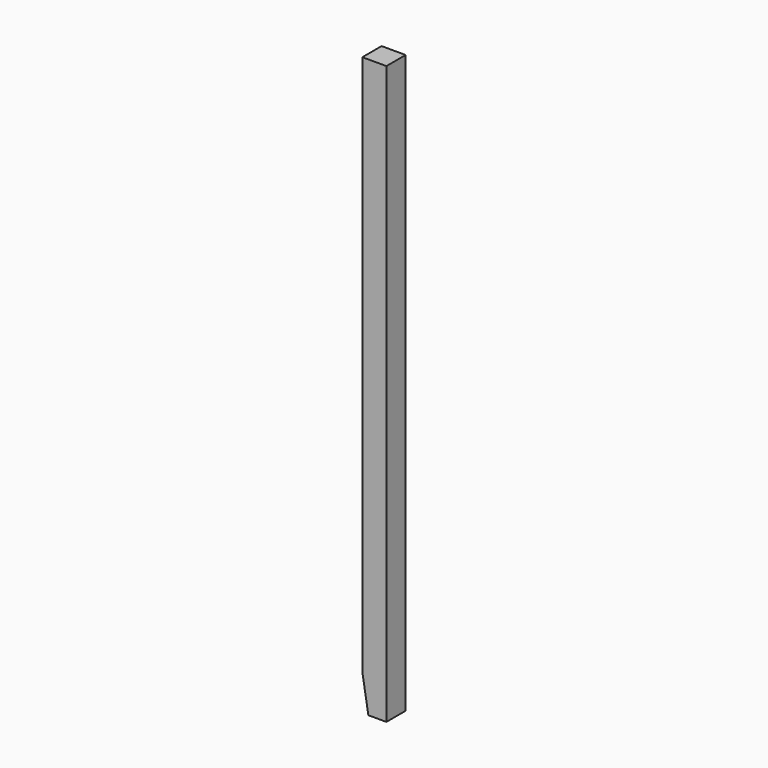
from build123d import *

# Parameters (mm, degrees)
F0_W     = 25.4
F0_H     = 609.6
F1_DEPTH = 25.4
F3_DEPTH = 25.4
F4_W     = 12.7
F4_H     = 12.7
F5_DEPTH = 12.7
F6_W     = 6.35
F6_H     = 76.2
F7_DEPTH = 12.7
F8_W     = 6.35
F8_H     = 76.2
F9_DEPTH = 12.446


with BuildPart() as f1:
    # F0 (on Front) → F1 (new body)
    with BuildSketch(Plane.XZ):
        Rectangle(F0_W, F0_H)
    extrude(amount=F1_DEPTH)

    # F2 (on face) → F3 (cut)
    with BuildSketch(Plane.XZ.offset(25.4)):
        Polygon((-12.7, -304.8), (-6.35, -304.8), (-12.7, -266.7), align=None)
    extrude(amount=-F3_DEPTH, mode=Mode.SUBTRACT)

    # F4 (on face) → F5 (cut)
    with BuildSketch(Plane(origin=(-12.7, 0, 0), x_dir=(0, -1, 0), z_dir=(-1, 0, 0))):
        with Locations((6.35, -247.65)):
            Rectangle(F4_W, F4_H)
    extrude(amount=-F5_DEPTH, mode=Mode.SUBTRACT)

    # F6 (on face) → F7 (cut)
    with BuildSketch(Plane(origin=(-12.7, 0, 0), x_dir=(0, -1, 0), z_dir=(-1, 0, 0))):
        with Locations((15.875, 228.6)):
            Rectangle(F6_W, F6_H)
    extrude(amount=-F7_DEPTH, mode=Mode.SUBTRACT)

    # F8 (on face) → F9 (cut)
    with BuildSketch(Plane(origin=(0, 0, 0), x_dir=(-1, 0, 0), z_dir=(0, 1, 0))):
        with Locations((-3.175, 228.6)):
            Rectangle(F8_W, F8_H)
    extrude(amount=-F9_DEPTH, mode=Mode.SUBTRACT)


solid = f1.part
